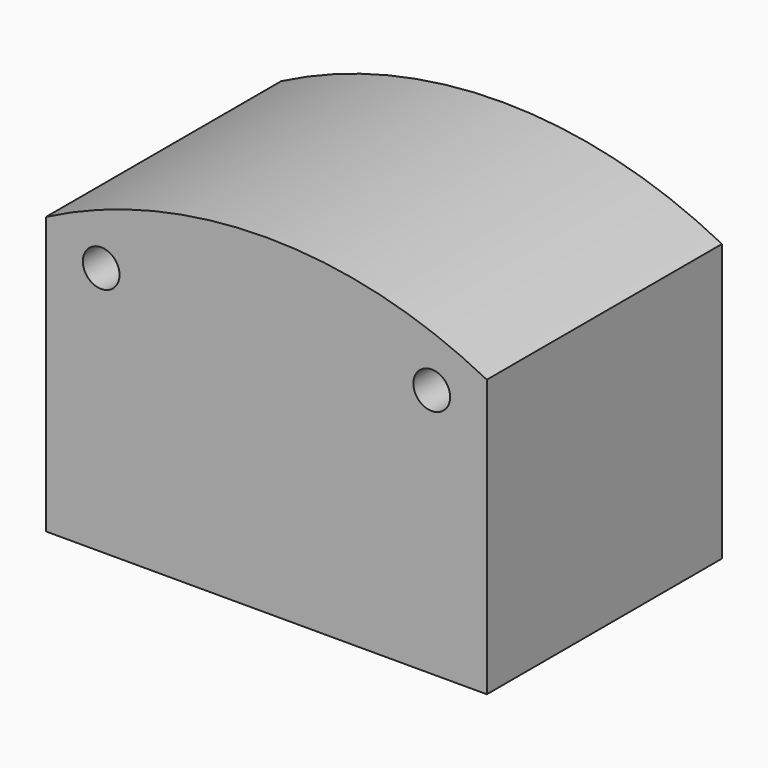
from build123d import *

# Parameters (mm, degrees)
F0_R     = 2.5
F1_DEPTH = 40


with BuildPart() as f1:
    # F0 (on Front) → F1 (new body)
    with BuildSketch(Plane.XZ):
        with BuildLine():
            Line((0, 37.70469), (0, 0))
            Line((0, 0), (60, 0))
            Line((60, 0), (60, 37.70469))
            ThreePointArc((60, 37.70469), (30, 45), (0, 37.70469))
        make_face()
        with Locations((7.5, 34)):
            Circle(F0_R, mode=Mode.SUBTRACT)
        with Locations((52.5, 34)):
            Circle(F0_R, mode=Mode.SUBTRACT)
    extrude(amount=F1_DEPTH)


solid = f1.part
